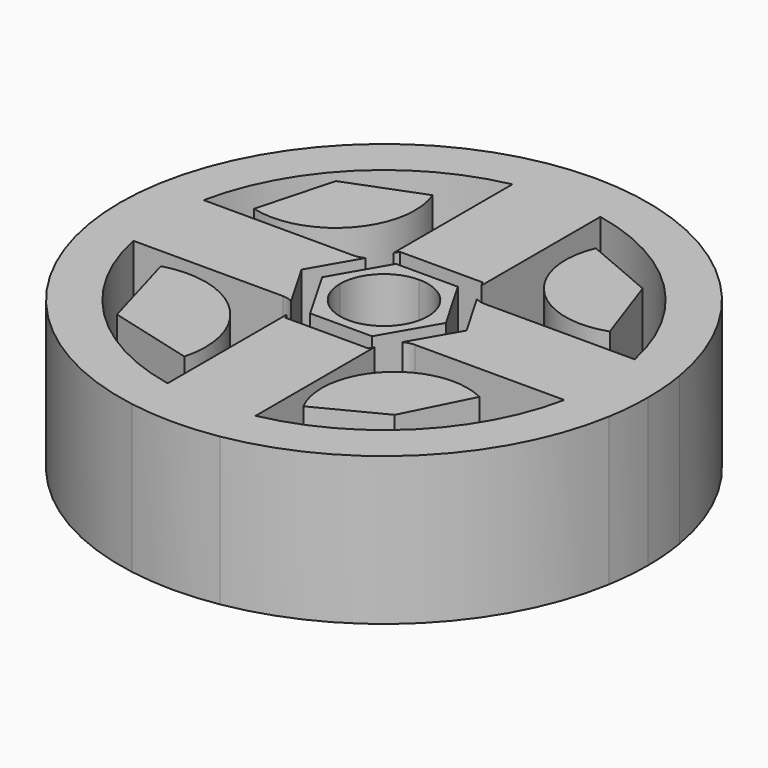
from build123d import *

# Parameters (mm, degrees)
F1_DEPTH = 21.336


with BuildPart() as f1:
    # F0 (on Top) → F1 (new body, symmetric)
    with BuildSketch(Plane.XY):
        with BuildLine():
            ThreePointArc((75.134213, -12.7), (75.933086, -6.372321), (76.2, 0))
            ThreePointArc((76.2, 0), (75.933086, 6.372321), (75.134213, 12.7))
            ThreePointArc((75.134213, 12.7), (53.881537, 53.881537), (12.7, 75.134213))
            ThreePointArc((12.7, 75.134213), (0, 76.2), (-12.7, 75.134213))
            ThreePointArc((-12.7, 75.134213), (-53.881537, 53.881537), (-75.134213, 12.7))
            ThreePointArc((-75.134213, 12.7), (-76.2, 0), (-75.134213, -12.7))
            ThreePointArc((-75.134213, -12.7), (-53.881537, -53.881537), (-12.7, -75.134213))
            ThreePointArc((-12.7, -75.134213), (0, -76.2), (12.7, -75.134213))
            ThreePointArc((12.7, -75.134213), (53.881537, -53.881537), (75.134213, -12.7))
        make_face()
        with BuildLine():
            ThreePointArc((62.217039, -12.7), (44.901281, -44.901281), (12.7, -62.217039))
            Line((12.7, -62.217039), (12.7, -19.273037))
            Line((12.7, -19.273037), (11.913647, -20.635041))
            Line((11.913647, -20.635041), (0, -20.635041))
            Line((0, -20.635041), (-11.913647, -20.635041))
            Line((-11.913647, -20.635041), (-12.7, -19.273037))
            Line((-12.7, -19.273037), (-12.7, -62.217039))
            ThreePointArc((-12.7, -62.217039), (-44.901281, -44.901281), (-62.217039, -12.7))
            Line((-62.217039, -12.7), (-19.05, -12.7))
            ThreePointArc((-19.05, -12.7), (-17.51138, -12.889225), (-16.064459, -13.445623))
            Line((-16.064459, -13.445623), (-23.827293, 0))
            Line((-23.827293, 0), (-16.064459, 13.445623))
            ThreePointArc((-16.064459, 13.445623), (-17.51138, 12.889225), (-19.05, 12.7))
            Line((-19.05, 12.7), (-62.217039, 12.7))
            ThreePointArc((-62.217039, 12.7), (-44.901281, 44.901281), (-12.7, 62.217039))
            Line((-12.7, 62.217039), (-12.7, 19.273037))
            Line((-12.7, 19.273037), (-11.913647, 20.635041))
            Line((-11.913647, 20.635041), (11.913647, 20.635041))
            Line((11.913647, 20.635041), (12.7, 19.273037))
            Line((12.7, 19.273037), (12.7, 62.217039))
            ThreePointArc((12.7, 62.217039), (44.901281, 44.901281), (62.217039, 12.7))
            Line((62.217039, 12.7), (19.05, 12.7))
            ThreePointArc((19.05, 12.7), (17.51138, 12.889225), (16.064459, 13.445623))
            Line((16.064459, 13.445623), (23.827293, 0))
            Line((23.827293, 0), (16.064459, -13.445623))
            ThreePointArc((16.064459, -13.445623), (17.51138, -12.889225), (19.05, -12.7))
            Line((19.05, -12.7), (62.217039, -12.7))
        make_face(mode=Mode.SUBTRACT)
        with BuildLine():
            Line((8.935235, -15.476281), (17.87047, 0))
            Line((17.87047, 0), (12.7, 0))
            ThreePointArc((12.7, 0), (8.980256, -8.980256), (0, -12.7))
            Line((0, -12.7), (0, -15.476281))
            Line((0, -15.476281), (8.935235, -15.476281))
        make_face()
        with BuildLine():
            Line((12.7, 0), (17.87047, 0))
            Line((17.87047, 0), (8.935235, 15.476281))
            Line((8.935235, 15.476281), (-8.935235, 15.476281))
            Line((-8.935235, 15.476281), (-17.87047, 0))
            Line((-17.87047, 0), (-12.7, 0))
            ThreePointArc((-12.7, 0), (-8.980256, 8.980256), (0, 12.7))
            ThreePointArc((0, 12.7), (8.980256, 8.980256), (12.7, 0))
        make_face()
        with BuildLine():
            Line((-8.935235, -15.476281), (0, -15.476281))
            Line((0, -15.476281), (0, -12.7))
            ThreePointArc((0, -12.7), (-8.980256, -8.980256), (-12.7, 0))
            Line((-12.7, 0), (-17.87047, 0))
            Line((-17.87047, 0), (-8.935235, -15.476281))
        make_face()
        with BuildLine():
            Line((-42.607927, -43.079422), (-17.91783, -49.657986))
            ThreePointArc((-17.91783, -49.657986), (-24.699476, -24.854007), (-49.618606, -18.508529))
            Line((-49.618606, -18.508529), (-42.607927, -43.079422))
        make_face()
        with BuildLine():
            Line((36.886193, -42.255931), (46.310697, -23.470389))
            ThreePointArc((46.310697, -23.470389), (21.952552, -27.467278), (18.193489, -51.863257))
            Line((18.193489, -51.863257), (36.886193, -42.255931))
        make_face()
        with BuildLine():
            Line((41.997657, 40.84294), (21.501394, 49.579222))
            ThreePointArc((21.501394, 49.579222), (25.724442, 25.624469), (49.342945, 19.808061))
            Line((49.342945, 19.808061), (41.997657, 40.84294))
        make_face()
        with BuildLine():
            Line((-44.763004, 38.579587), (-50.721239, 16.500155))
            ThreePointArc((-50.721239, 16.500155), (-27.764434, 23.280876), (-23.431009, 46.822637))
            Line((-23.431009, 46.822637), (-44.763004, 38.579587))
        make_face()
    extrude(amount=F1_DEPTH, both=True)


solid = f1.part
